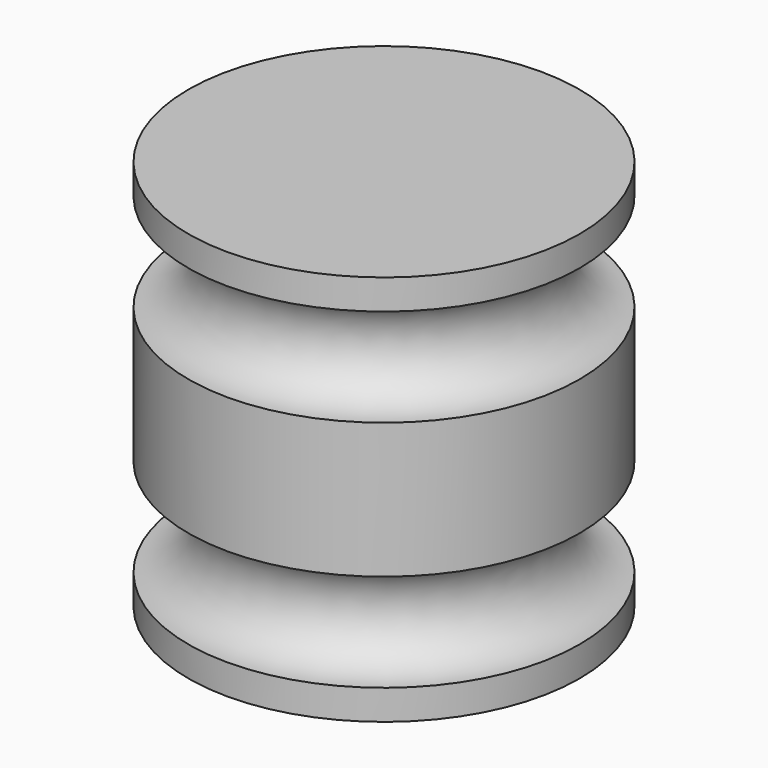
from build123d import *


with BuildPart() as f1:
    # F0 (on Front) → F1 (revolve)
    with BuildSketch(Plane.XZ):
        with BuildLine():
            Line((0, 101.6), (0, 0))
            Line((0, 0), (50.8, 0))
            Line((50.8, 0), (50.8, 7.797315))
            ThreePointArc((50.8, 7.797315), (38.1, 20.497315), (50.8, 33.197315))
            Line((50.8, 33.197315), (50.8, 68.393594))
            ThreePointArc((50.8, 68.393594), (38.1, 81.093594), (50.8, 93.793594))
            Line((50.8, 93.793594), (50.8, 101.6))
            Line((50.8, 101.6), (0, 101.6))
        make_face()
    revolve(axis=Axis((0, 0, 50.8), (0, 0, 1)))


solid = f1.part
